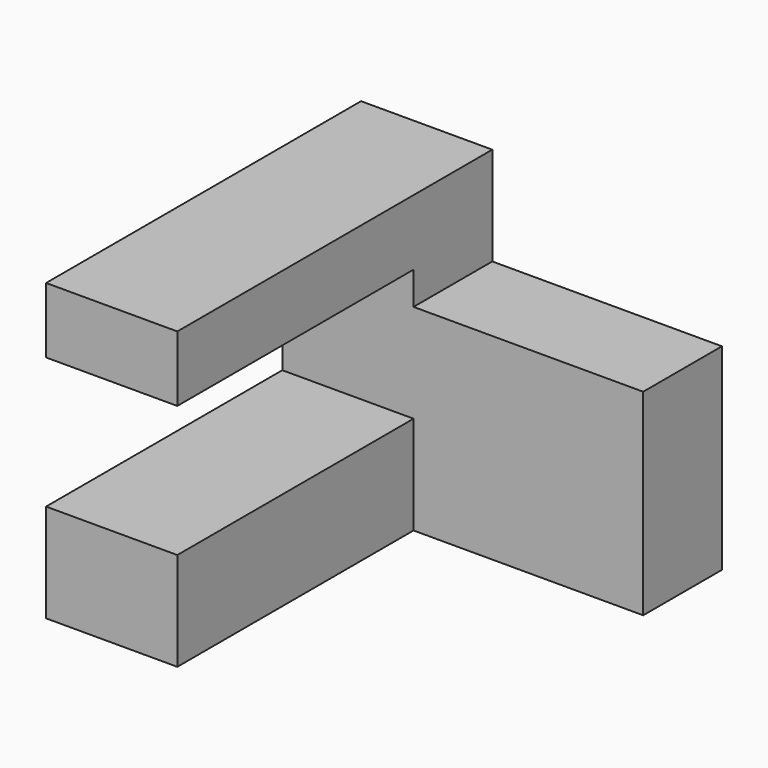
from build123d import *

# Parameters (mm, degrees)
F0_W     = 45
F0_H     = 15
F1_DEPTH = 20
F2_DEPTH = 35


with BuildPart() as f1:
    # F0 (on Right) → F1 (new body)
    with BuildSketch(Plane.YZ):
        Polygon((45, 35), (45, 30), (60, 30), (60, 45), (0, 45), (0, 35), align=None)
        Polygon((45, 15), (45, 0), (60, 0), (60, 30), (45, 30), align=None)
        with Locations((22.5, 7.5)):
            Rectangle(F0_W, F0_H)
    extrude(amount=-F1_DEPTH)

    # F0 (on Right) → F2 (join)
    with BuildSketch(Plane.YZ):
        Polygon((45, 15), (45, 0), (60, 0), (60, 30), (45, 30), align=None)
    extrude(amount=F2_DEPTH)


solid = f1.part
